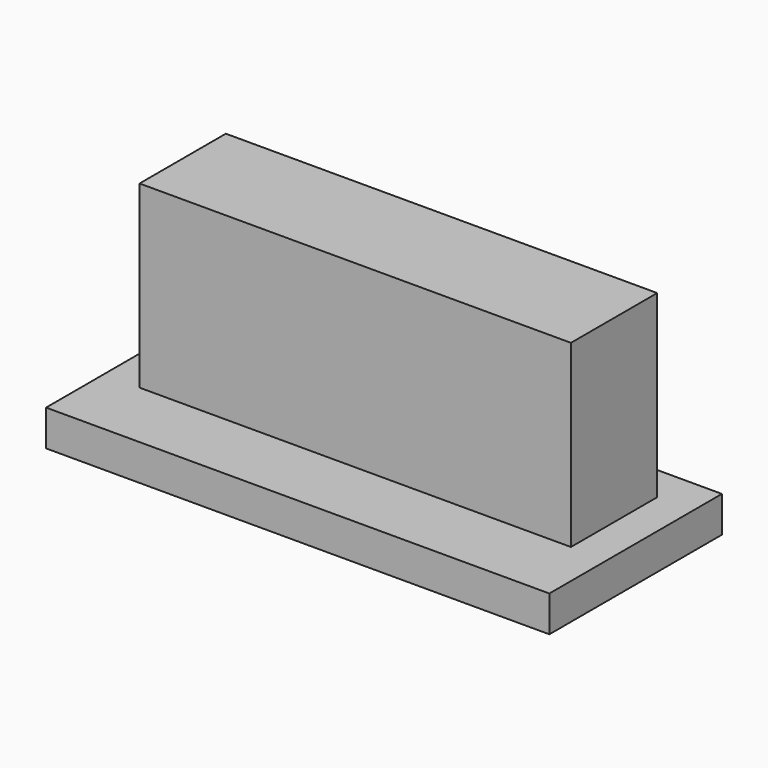
from build123d import *

# Parameters (mm, degrees)
SKETCH_W     = 28
SKETCH_H     = 12
PAD_DEPTH    = 2
SKETCH001_W  = 24
SKETCH001_H  = 6
PAD001_DEPTH = 10


with BuildPart() as part:
    # Sketch → Pad (new body)
    with BuildSketch(Plane.XY):
        with Locations((14, 6)):
            Rectangle(SKETCH_W, SKETCH_H)
    extrude(amount=PAD_DEPTH)

    # Sketch001 → Pad001 (new body)
    with BuildSketch(Plane.XY.offset(2)):
        with Locations((14, 7)):
            Rectangle(SKETCH001_W, SKETCH001_H)
    extrude(amount=PAD001_DEPTH)


solid = part.part
